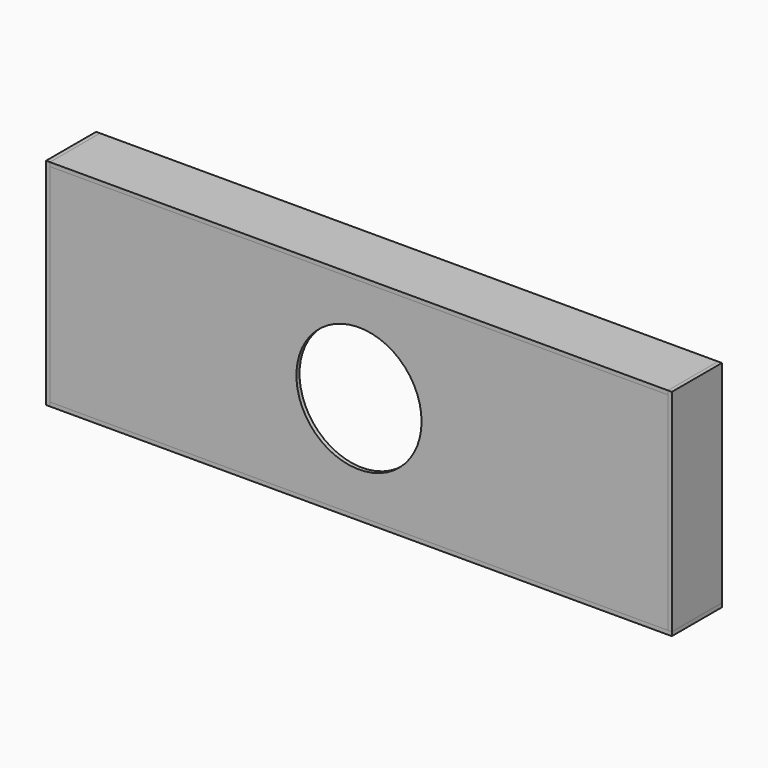
from build123d import *

# Parameters (mm, degrees)
F0_W     = 1016
F0_H     = 349.25
F0_R     = 101.6
F1_DEPTH = 6.35
F2_W     = 1016
F2_H     = 6.35
F3_DEPTH = 101.6
F4_W     = 6.35
F4_H     = 101.6
F5_DEPTH = 349.25


with BuildPart() as f1:
    # F0 (on Front) → F1 (new body)
    with BuildSketch(Plane.XZ):
        with Locations((508, 174.625)):
            Rectangle(F0_W, F0_H)
        with Locations((508, 174.625)):
            Circle(F0_R, mode=Mode.SUBTRACT)
    extrude(amount=-F1_DEPTH)


with BuildPart() as f3:
    # F2 (on Front) → F3 (new body)
    with BuildSketch(Plane.XZ):
        with Locations((508, 346.075)):
            Rectangle(F2_W, F2_H)
    extrude(amount=-F3_DEPTH)


with BuildPart() as f5:
    # F4 (on face) → F5 (new body, through all)
    with BuildSketch(Plane.XY.offset(349.25)):
        with Locations((1012.825, 50.8)):
            Rectangle(F4_W, F4_H)
    extrude(amount=-F5_DEPTH)


with BuildPart() as f6_1:
    # F6: copy of F3
    add(f3.part.moved(Location((0, 0, -342.9))))


with BuildPart() as f7_1:
    # F7: copy of F5
    add(f5.part.moved(Location((-1009.65, 0, 0))))


solid = Compound([f1.part, f3.part, f5.part, f6_1.part, f7_1.part])
